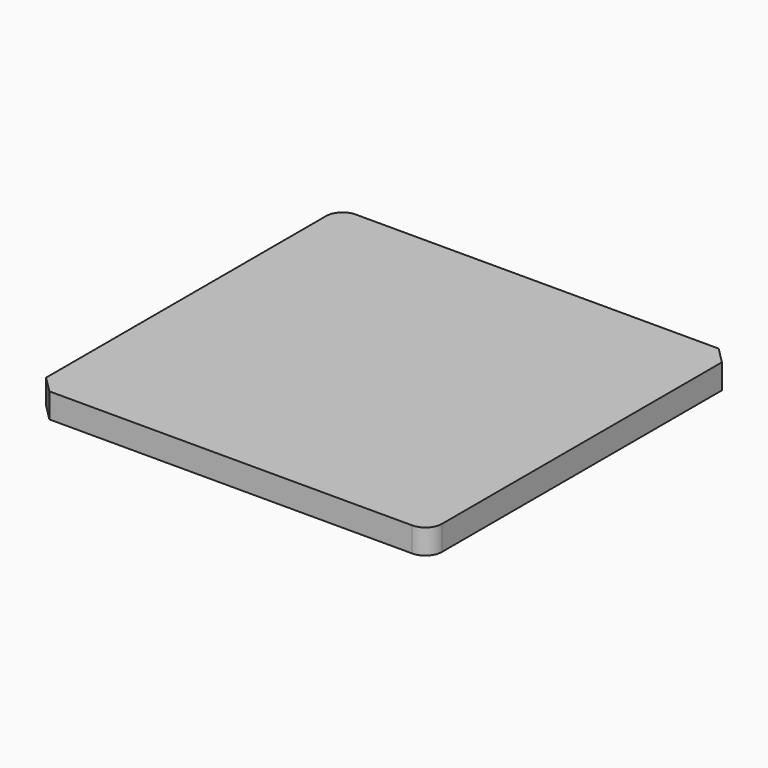
from build123d import *

# Parameters (mm, degrees)
F2_DEPTH  = 19.05
F3_SIZE   = 12.7
F1_W      = 50
F1_H      = 0.2995532098
F1_H_2    = 0.7460711968
F4_DEPTH  = 5
F5_R      = 12.5
F6_DEPTH  = 5
F7_R      = 127
F7_R_2    = 114.3
F8_DEPTH  = 5
F10_DEPTH = 5
F12_DEPTH = 10


with BuildPart() as f2:
    # F0 (on Top) → F2 (new body)
    with BuildSketch(Plane.XY):
        with BuildLine():
            Line((-152.4, -147.4406201886), (139.7, -147.4406201886))
            ThreePointArc((139.7, -147.4406201886), (148.6802561211, -143.7208763097), (152.4, -134.7406201886))
            Line((152.4, -134.7406201886), (152.4, 147.4406201886))
            Line((152.4, 147.4406201886), (-139.7, 147.4406201886))
            ThreePointArc((-139.7, 147.4406201886), (-148.6802561211, 143.7208763097), (-152.4, 134.7406201886))
            Line((-152.4, 134.7406201886), (-152.4, -147.4406201886))
        make_face()
    extrude(amount=F2_DEPTH)

    # F3
    f3_edges = [f2.edges().sort_by_distance(p)[0] for p in [
        (-152.4, -147.44062, 9.525),
        (152.4, 147.44062, 9.525),
    ]]
    chamfer(f3_edges, length=F3_SIZE)

    # F1 (on Top) → F4 (cut)
    with BuildSketch(Plane.XY):
        with BuildLine():
            Line((-59.325, -12.5), (59.325, -12.5))
            ThreePointArc((59.325, -12.5), (61.5700640303, -11.5700640303), (62.5, -9.325))
            Line((62.5, -9.325), (62.5, 9.325))
            ThreePointArc((62.5, 9.325), (61.5700640303, 11.5700640303), (59.325, 12.5))
            Line((59.325, 12.5), (-59.325, 12.5))
            ThreePointArc((-59.325, 12.5), (-61.5700640303, 11.5700640303), (-62.5, 9.325))
            Line((-62.5, 9.325), (-62.5, -9.325))
            ThreePointArc((-62.5, -9.325), (-61.5700640303, -11.5700640303), (-59.325, -12.5))
        make_face()
        with BuildLine():
            Line((-59.325, 14.37484), (59.325, 14.37484))
            ThreePointArc((59.325, 14.37484), (61.5700640303, 15.3047759697), (62.5, 17.54984))
            Line((62.5, 17.54984), (62.5, 36.19984))
            ThreePointArc((62.5, 36.19984), (61.5700640303, 38.4449040303), (59.325, 39.37484))
            Line((59.325, 39.37484), (24.8259999848, 39.37484))
            Line((24.8259999848, 39.37484), (24.8259999848, 39.0752867902))
            Line((24.8259999848, 39.0752867902), (-25.1740000152, 39.0752867902))
            Line((-25.1740000152, 39.0752867902), (-25.1740000152, 39.37484))
            Line((-25.1740000152, 39.37484), (-59.325, 39.37484))
            ThreePointArc((-59.325, 39.37484), (-61.5700640303, 38.4449040303), (-62.5, 36.19984))
            Line((-62.5, 36.19984), (-62.5, 17.54984))
            ThreePointArc((-62.5, 17.54984), (-61.5700640303, 15.3047759697), (-59.325, 14.37484))
        make_face()
        with Locations((-0.1740000152, 39.2250633951)):
            Rectangle(F1_W, F1_H)
        with BuildLine():
            Line((-25.1740000152, 39.37484), (24.8259999848, 39.37484))
            Line((24.8259999848, 39.37484), (24.8259999848, 60.9002867902))
            ThreePointArc((24.8259999848, 60.9002867902), (23.896064015, 63.1453508205), (21.6509999848, 64.0752867902))
            Line((21.6509999848, 64.0752867902), (-21.9990000152, 64.0752867902))
            ThreePointArc((-21.9990000152, 64.0752867902), (-24.2440640455, 63.1453508205), (-25.1740000152, 60.9002867902))
            Line((-25.1740000152, 60.9002867902), (-25.1740000152, 39.37484))
        make_face()
        with BuildLine():
            ThreePointArc((59.325, -39.37484), (61.5700640303, -38.4449040303), (62.5, -36.19984))
            Line((62.5, -36.19984), (62.5, -17.54984))
            ThreePointArc((62.5, -17.54984), (61.5700640303, -15.3047759697), (59.325, -14.37484))
            Line((59.325, -14.37484), (-59.325, -14.37484))
            ThreePointArc((-59.325, -14.37484), (-61.5700640303, -15.3047759697), (-62.5, -17.54984))
            Line((-62.5, -17.54984), (-62.5, -36.19984))
            ThreePointArc((-62.5, -36.19984), (-61.5700640303, -38.4449040303), (-59.325, -39.37484))
            Line((-59.325, -39.37484), (-25.1740000152, -39.37484))
            Line((-25.1740000152, -39.37484), (-25.1740000152, -38.6287688032))
            Line((-25.1740000152, -38.6287688032), (24.8259999848, -38.6287688032))
            Line((24.8259999848, -38.6287688032), (24.8259999848, -39.37484))
            Line((24.8259999848, -39.37484), (59.325, -39.37484))
        make_face()
        with BuildLine():
            Line((24.8259999848, -61.4887688032), (24.8259999848, -39.37484))
            Line((24.8259999848, -39.37484), (-25.1740000152, -39.37484))
            Line((-25.1740000152, -39.37484), (-25.1740000152, -61.4887688032))
            ThreePointArc((-25.1740000152, -61.4887688032), (-24.2440640455, -63.7338328334), (-21.9990000152, -64.6637688032))
            Line((-21.9990000152, -64.6637688032), (21.6509999848, -64.6637688032))
            ThreePointArc((21.6509999848, -64.6637688032), (23.896064015, -63.7338328334), (24.8259999848, -61.4887688032))
        make_face()
        with Locations((-0.1740000152, -39.0018044016)):
            Rectangle(F1_W, F1_H_2)
    extrude(amount=F4_DEPTH, mode=Mode.SUBTRACT)

    # F5 (on Top) → F6 (cut)
    with BuildSketch(Plane.XY):
        with Locations((-118.9195587855, -0.6876965701)):
            Circle(F5_R)
        with Locations((-111.4739967474, -41.5381840536)):
            Circle(F5_R)
        with Locations((-90.5057674586, -77.3785535018)):
            Circle(F5_R)
        with Locations((-58.5439488294, -103.8859274119)):
            Circle(F5_R)
        with Locations((-19.4436078927, -117.8631252832)):
            Circle(F5_R)
        with Locations((22.079177175, -117.6242907708)):
            Circle(F5_R)
        with Locations((61.0161456833, -103.1982308418)):
            Circle(F5_R)
        with Locations((92.6709245819, -76.3249412296)):
            Circle(F5_R)
        with Locations((113.2254803607, -40.2457372689)):
            Circle(F5_R)
        with Locations((120.2006302398, 0.6876965701)):
            Circle(F5_R)
        with Locations((112.7550682017, 41.5381840536)):
            Circle(F5_R)
        with Locations((91.7868389128, 77.3785535018)):
            Circle(F5_R)
        with Locations((59.8250202836, 103.8859274119)):
            Circle(F5_R)
        with Locations((20.724679347, 117.8631252832)):
            Circle(F5_R)
        with Locations((-20.7981057207, 117.6242907708)):
            Circle(F5_R)
        with Locations((-59.735074229, 103.1982308418)):
            Circle(F5_R)
        with Locations((-91.3898531276, 76.3249412296)):
            Circle(F5_R)
        with Locations((-111.9444089064, 40.2457372689)):
            Circle(F5_R)
    extrude(amount=F6_DEPTH, mode=Mode.SUBTRACT)

    # F7 (on Top) → F8 (cut)
    with BuildSketch(Plane.XY):
        Circle(F7_R)
        Circle(F7_R_2, mode=Mode.SUBTRACT)
    extrude(amount=F8_DEPTH, mode=Mode.SUBTRACT)

    # F9 (on Top) → F10 (cut)
    with BuildSketch(Plane.XY):
        with BuildLine():
            ThreePointArc((-18.1759242915, -95.255201998), (-17.7109563066, -96.3777340131), (-16.5884242915, -96.842701998))
            Line((-16.5884242915, -96.842701998), (15.1615757085, -96.842701998))
            ThreePointArc((15.1615757085, -96.842701998), (16.2841077237, -96.3777340131), (16.7490757085, -95.255201998))
            Line((16.7490757085, -95.255201998), (16.7490757085, -80.967701998))
            ThreePointArc((16.7490757085, -80.967701998), (16.2841077237, -79.8451699828), (15.1615757085, -79.380201998))
            Line((15.1615757085, -79.380201998), (-16.5884242915, -79.380201998))
            ThreePointArc((-16.5884242915, -79.380201998), (-17.7109563066, -79.8451699828), (-18.1759242915, -80.967701998))
            Line((-18.1759242915, -80.967701998), (-18.1759242915, -95.255201998))
        make_face()
    extrude(amount=F10_DEPTH, mode=Mode.SUBTRACT)

    # F11 (on Top) → F12 (cut)
    with BuildSketch(Plane.XY):
        with BuildLine():
            ThreePointArc((12.5, 9.4338746626), (11.5700640303, 11.6789386929), (9.325, 12.6088746626))
            Line((9.325, 12.6088746626), (-9.325, 12.6088746626))
            ThreePointArc((-9.325, 12.6088746626), (-11.5700640303, 11.6789386929), (-12.5, 9.4338746626))
            Line((-12.5, 9.4338746626), (-12.5, -9.4338746626))
            ThreePointArc((-12.5, -9.4338746626), (-11.5700640303, -11.6789386929), (-9.325, -12.6088746626))
            Line((-9.325, -12.6088746626), (9.325, -12.6088746626))
            ThreePointArc((9.325, -12.6088746626), (11.5700640303, -11.6789386929), (12.5, -9.4338746626))
            Line((12.5, -9.4338746626), (12.5, 9.4338746626))
        make_face()
    extrude(amount=F12_DEPTH, mode=Mode.SUBTRACT)


solid = f2.part
